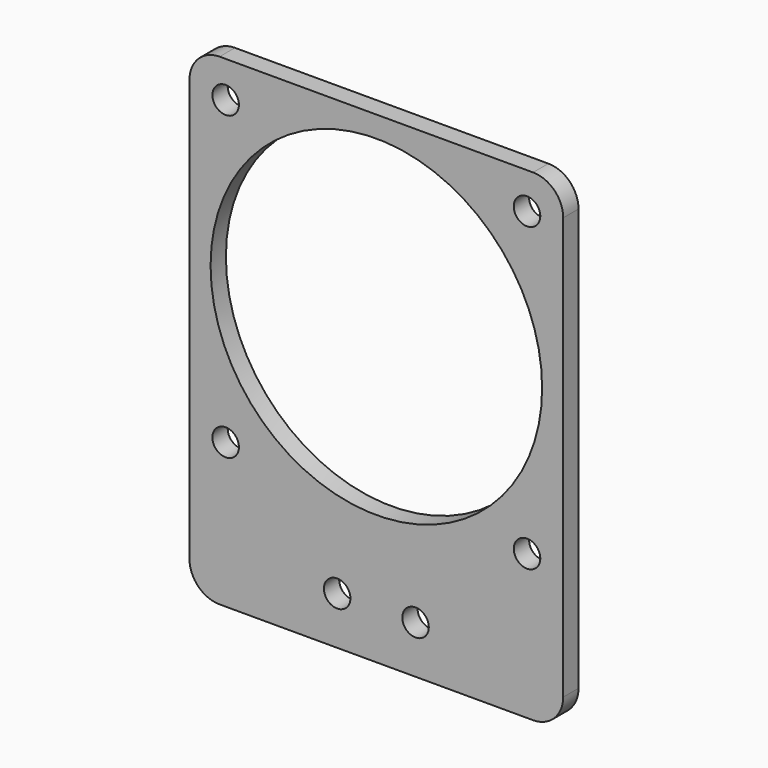
from build123d import *

# Parameters (mm, degrees)
F0_W     = 62
F0_H     = 3.175
F1_DEPTH = 80
F3_D     = 4.4
F5_D     = 4.4
F4_R     = 27.5
F6_DEPTH = 25
F7_R     = 5


with BuildPart() as f1:
    # F0 (on Top) → F1 (new body)
    with BuildSketch(Plane.XY):
        Rectangle(F0_W, F0_H)
    extrude(amount=F1_DEPTH)

    # F3 (through all)
    with Locations(Plane(origin=(0, 1.5875, 0), x_dir=(-1, 0, 0), z_dir=(0, 1, 0))):
        with Locations((-6.5, 7.9375), (6.5, 7.9375)):
            Hole(F3_D / 2)

    # F5 (through all)
    with Locations(Plane(origin=(0, 1.5875, 0), x_dir=(-1, 0, 0), z_dir=(0, 1, 0))):
        with Locations((-25, 74), (25, 74), (25, 24), (-25, 24)):
            Hole(F5_D / 2)

    # F4 (on face) → F6 (cut)
    with BuildSketch(Plane(origin=(0, 1.5875, 0), x_dir=(-1, 0, 0), z_dir=(0, 1, 0))):
        with Locations((0, 49)):
            Circle(F4_R)
    extrude(amount=-F6_DEPTH, mode=Mode.SUBTRACT)

    # F7
    f7_edges = [f1.edges().sort_by_distance(p)[0] for p in [
        (31, 0, 80),
        (-31, 0, 80),
        (-31, 0, 0),
        (31, 0, 0),
    ]]
    fillet(f7_edges, radius=F7_R)


solid = f1.part
